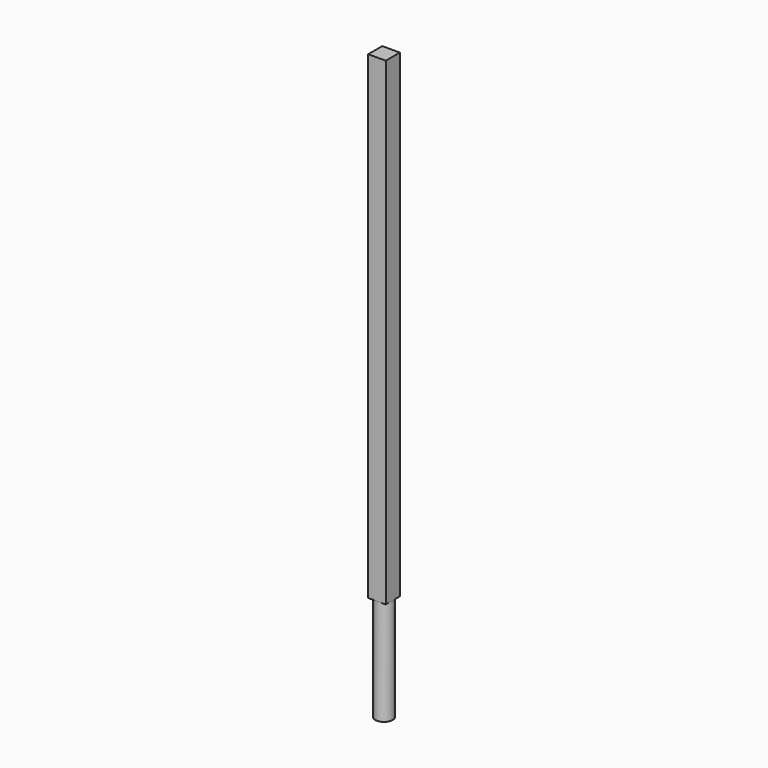
from build123d import *

# Parameters (mm, degrees)
F0_W     = 5
F0_H     = 5
F2_DEPTH = 136.5
F1_R     = 2.5
F3_DEPTH = 30


with BuildPart() as f2:
    # F0 (on Top) → F2 (new body)
    with BuildSketch(Plane.XY):
        with Locations((-0.112459, -0.150917)):
            Rectangle(F0_W, F0_H)
    extrude(amount=F2_DEPTH)

    # F1 (on Top) → F3 (join)
    with BuildSketch(Plane.XY):
        with Locations((-0.112376, -0.150785)):
            Circle(F1_R)
    extrude(amount=-F3_DEPTH)


solid = f2.part
